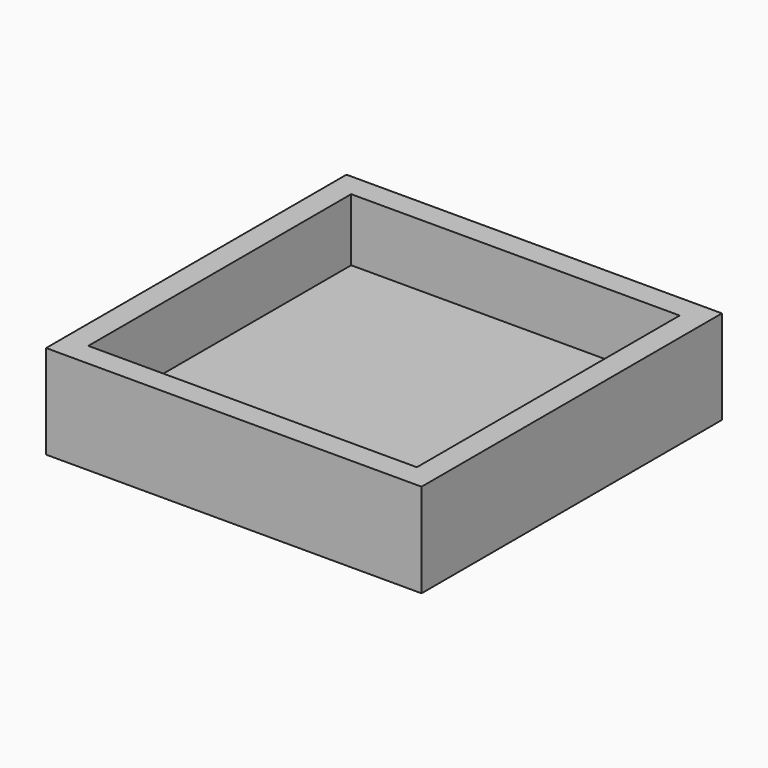
from build123d import *

# Parameters (mm, degrees)
F0_W     = 304.8
F0_H     = 304.8
F1_DEPTH = 38.1
F2_W     = 266.7
F2_H     = 266.7
F3_DEPTH = 50.8


with BuildPart() as f1:
    # F0 (on Top) → F1 (new body, symmetric)
    with BuildSketch(Plane.XY):
        Rectangle(F0_W, F0_H)
    extrude(amount=F1_DEPTH, both=True)

    # F2 (on face) → F3 (cut)
    with BuildSketch(Plane.XY.offset(38.1)):
        Rectangle(F2_W, F2_H)
    extrude(amount=-F3_DEPTH, mode=Mode.SUBTRACT)


solid = f1.part
